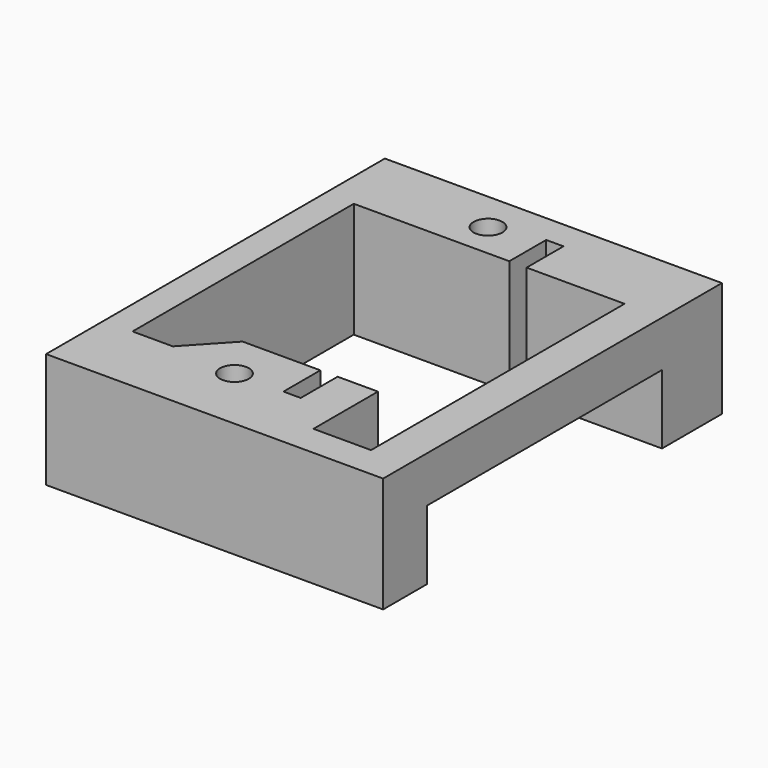
from build123d import *

# Parameters (mm, degrees)
F0_W     = 58.5
F0_H     = 73.5
F0_R     = 2.5
F1_DEPTH = 20
F2_W     = 47
F2_H     = 12
F2_W_2   = 4
F3_DEPTH = 6.5


with BuildPart() as f1:
    # F0 (on Top) → F1 (new body)
    with BuildSketch(Plane.XY):
        with Locations((9.048133, -1.976883)):
            Rectangle(F0_W, F0_H)
        with Locations((3.298133, -27.226883)):
            Circle(F0_R, mode=Mode.SUBTRACT)
        Polygon((14.798133, 21.773117), (21.798133, 21.773117), (31.798133, 21.773117), (31.798133, -33.226883), (21.798133, -33.226883), (21.798133, -19.226883), (14.798133, -19.226883), (14.798133, -27.226883), (11.798133, -27.226883), (11.798133, -19.226883), (3.298133, -19.226883), (-1.701867, -19.226883), (-8.201867, -26.226883), (-15.201867, -26.226883), (-15.201867, -19.226883), (-15.201867, 21.773117), (3.298133, 21.773117), (11.798133, 21.773117), (11.798133, 29.773117), (14.798133, 29.773117), align=None, mode=Mode.SUBTRACT)
        with Locations((3.298133, 27.773117)):
            Circle(F0_R, mode=Mode.SUBTRACT)
    extrude(amount=F1_DEPTH)

    # F2 (on face) → F3 (cut, through all)
    with BuildSketch(Plane.YZ.offset(38.298133)):
        with Locations((-5.726883, 6)):
            Rectangle(F2_W, F2_H)
        with Locations((19.773117, 6)):
            Rectangle(F2_W_2, F2_H)
    extrude(amount=-F3_DEPTH, mode=Mode.SUBTRACT)


solid = f1.part
